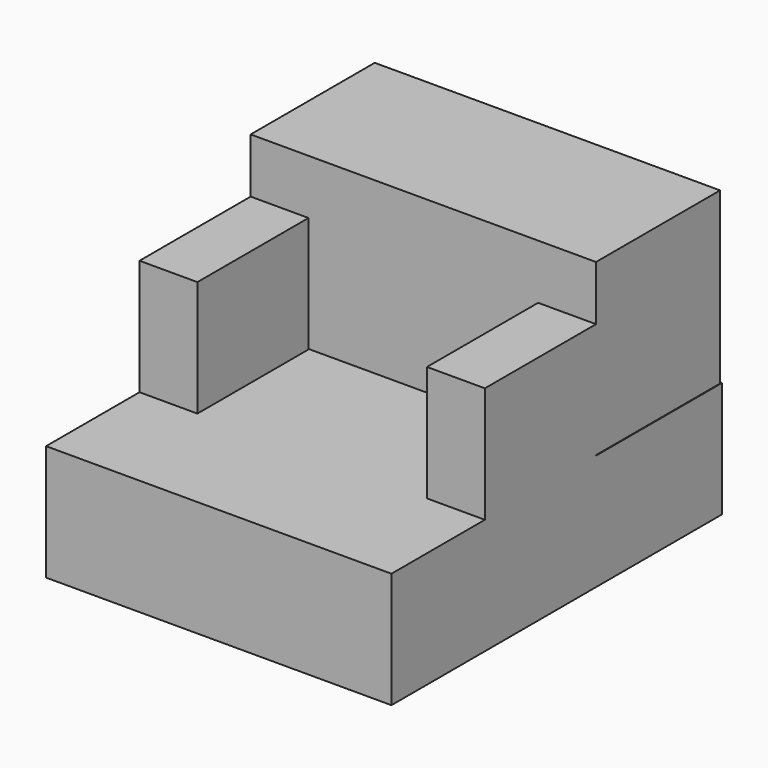
from build123d import *

# Parameters (mm, degrees)
F0_W     = 75.78361
F0_H     = 90.648856
F1_DEPTH = 25.4
F2_W     = 12.7
F2_H     = 30.48
F3_DEPTH = 50.8
F4_W     = 75.78361
F4_H     = 37.308857
F5_DEPTH = 34.036


with BuildPart() as f1:
    # F0 (on Top) → F1 (new body)
    with BuildSketch(Plane.XY):
        with Locations((1.457378, -10.784591)):
            Rectangle(F0_W, F0_H)
    extrude(amount=F1_DEPTH)

    # F2 (on Top) → F3 (join)
    with BuildSketch(Plane.XY):
        with Locations((-30.084427, -15.24)):
            Rectangle(F2_W, F2_H)
        with Locations((32.999183, -15.24)):
            Rectangle(F2_W, F2_H)
    extrude(amount=F3_DEPTH)

    # F4 (on Front) → F5 (join)
    with BuildSketch(Plane.XZ):
        with Locations((1.457378, 44.158525)):
            Rectangle(F4_W, F4_H)
    extrude(amount=-F5_DEPTH)


solid = f1.part
